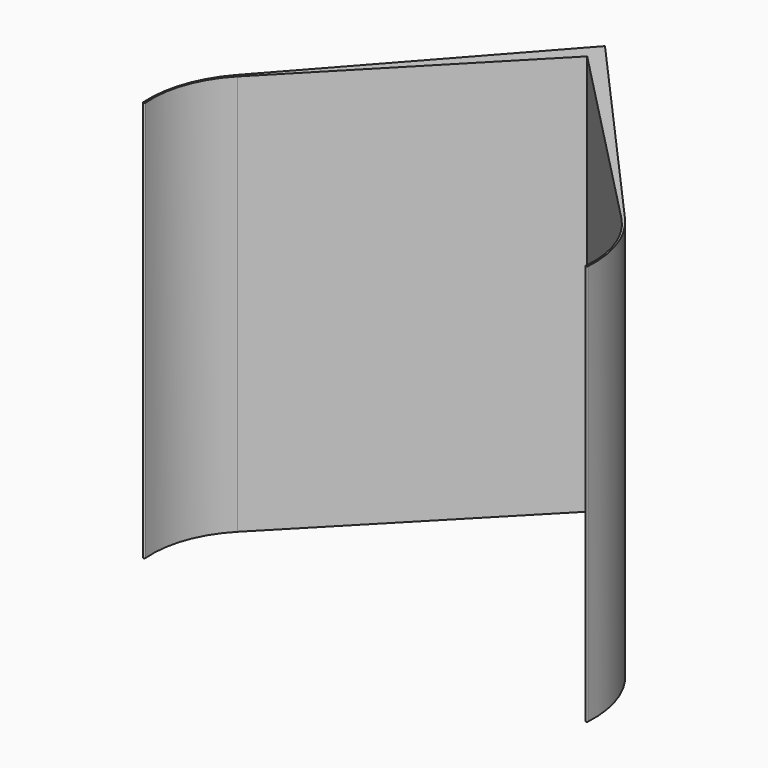
from build123d import *

# Parameters (mm, degrees)
F1_DEPTH = 914.4


with BuildPart() as f1:
    # F0 (on Top) → F1 (new body)
    with BuildSketch(Plane.XY):
        with BuildLine():
            Line((442.876746, -496.589411), (0, 0))
            Line((0, 0), (-442.876746, -496.589411))
            ThreePointArc((-442.876746, -496.589411), (-493.663388, -583.230539), (-507.080321, -682.759199))
            ThreePointArc((-507.080321, -682.759199), (-504.622043, -684.893954), (-502.518043, -682.409302))
            ThreePointArc((-502.518043, -682.409302), (-490.069762, -584.357788), (-437.834835, -500.449675))
            Line((-437.834835, -500.449675), (0, -50.8))
            Line((0, -50.8), (437.834835, -500.449675))
            ThreePointArc((437.834835, -500.449675), (490.069762, -584.357788), (502.518043, -682.409302))
            ThreePointArc((502.518043, -682.409302), (504.622043, -684.893954), (507.080321, -682.759199))
            ThreePointArc((507.080321, -682.759199), (493.663388, -583.230539), (442.876746, -496.589411))
        make_face()
    extrude(amount=F1_DEPTH)


solid = f1.part
